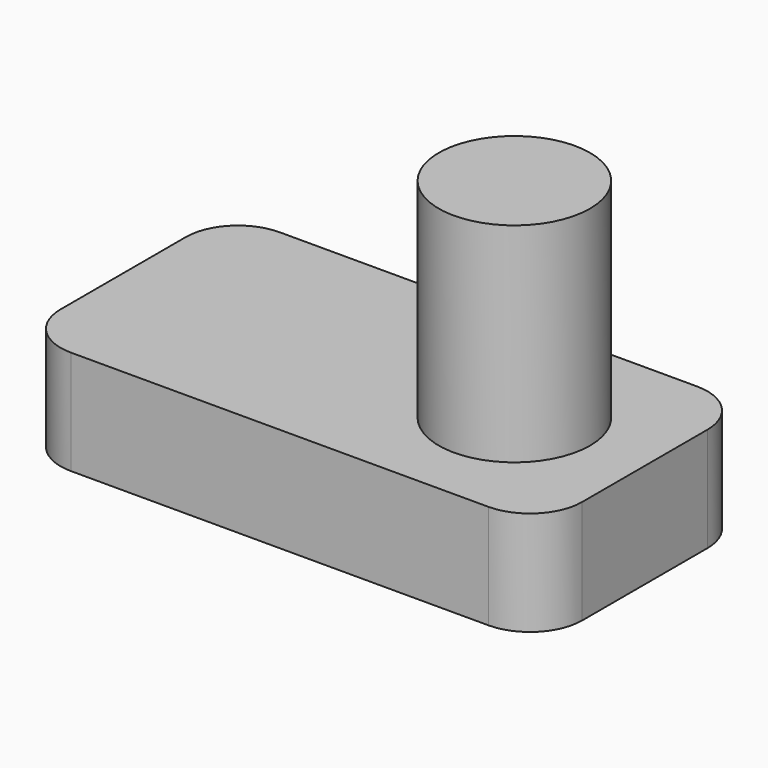
from build123d import *

# Parameters (mm, degrees)
F1_DEPTH = 2
F2_R     = 1.45
F3_DEPTH = 4


with BuildPart() as f1:
    # F0 (on Top) → F1 (new body)
    with BuildSketch(Plane.XY):
        with BuildLine():
            Line((-67.440309, -11.945863), (-59.440309, -11.945863))
            ThreePointArc((-59.440309, -11.945863), (-58.733202, -11.65297), (-58.440309, -10.945863))
            Line((-58.440309, -10.945863), (-58.440309, -7.945863))
            ThreePointArc((-58.440309, -7.945863), (-58.733202, -7.238756), (-59.440309, -6.945863))
            Line((-59.440309, -6.945863), (-67.440309, -6.945863))
            ThreePointArc((-67.440309, -6.945863), (-68.147416, -7.238756), (-68.440309, -7.945863))
            Line((-68.440309, -7.945863), (-68.440309, -10.945863))
            ThreePointArc((-68.440309, -10.945863), (-68.147416, -11.65297), (-67.440309, -11.945863))
        make_face()
    extrude(amount=F1_DEPTH)

    # F2 (on face) → F3 (join)
    with BuildSketch(Plane.XY.offset(2)):
        with Locations((-60.940309, -9.445863)):
            Circle(F2_R)
    extrude(amount=F3_DEPTH)


solid = f1.part
